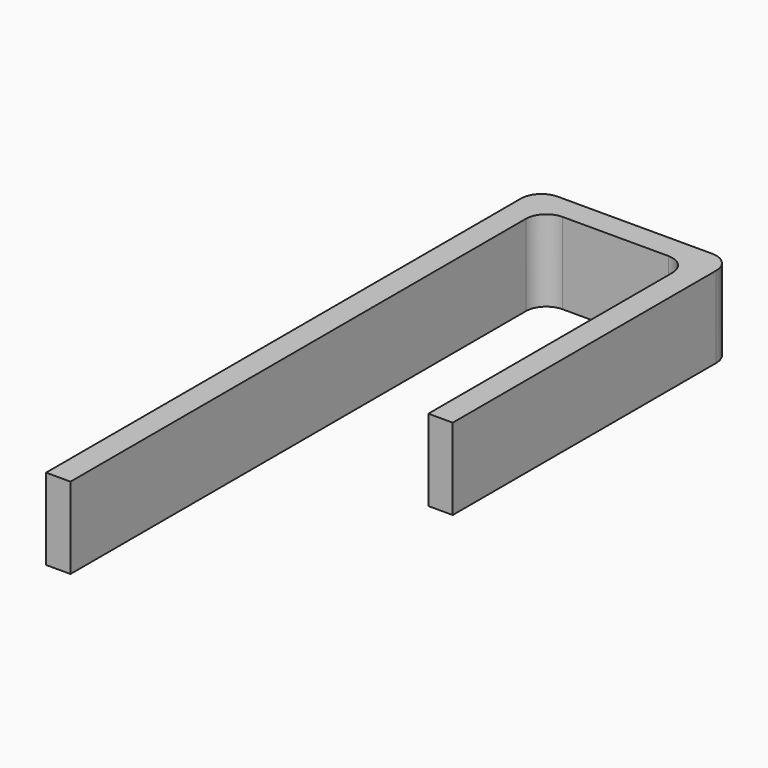
from build123d import *

# Parameters (mm, degrees)
F1_DEPTH = 25.4


with BuildPart() as f1:
    # F0 (on Top) → F1 (new body)
    with BuildSketch(Plane.XY):
        with BuildLine():
            ThreePointArc((0, -6.35), (1.859872, -1.859872), (6.35, 0))
            Line((6.35, 0), (39.37, 0))
            ThreePointArc((39.37, 0), (43.860128, -1.859872), (45.72, -6.35))
            Line((45.72, -6.35), (45.72, -101.6))
            Line((45.72, -101.6), (53.34, -101.6))
            Line((53.34, -101.6), (53.34, 1.27))
            ThreePointArc((53.34, 1.27), (51.480128, 5.760128), (46.99, 7.62))
            Line((46.99, 7.62), (-1.27, 7.62))
            ThreePointArc((-1.27, 7.62), (-5.760128, 5.760128), (-7.62, 1.27))
            Line((-7.62, 1.27), (-7.62, -184.15))
            Line((-7.62, -184.15), (0, -184.15))
            Line((0, -184.15), (0, -6.35))
        make_face()
    extrude(amount=F1_DEPTH)


solid = f1.part
